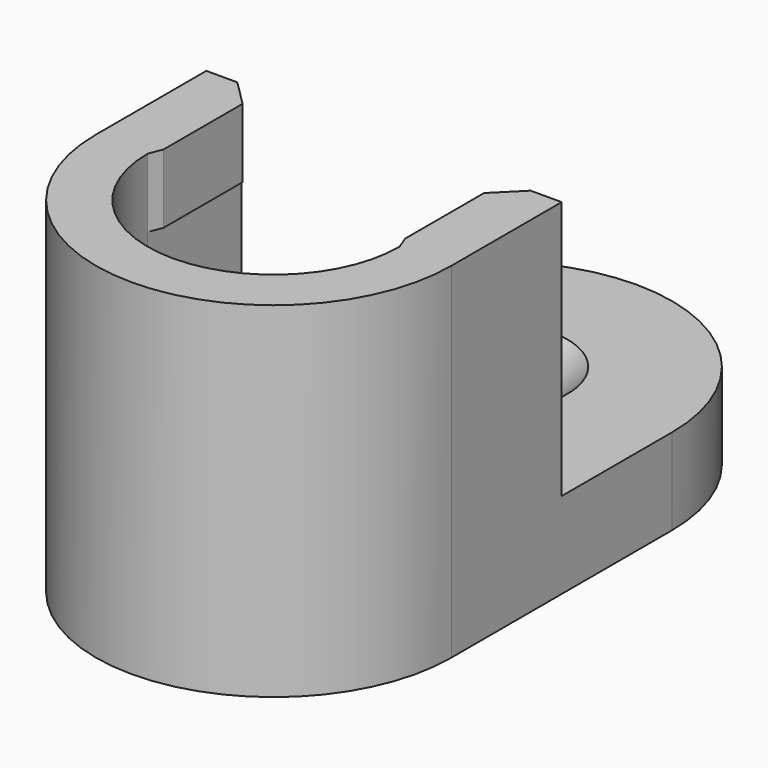
from build123d import *

# Parameters (mm, degrees)
F1_DEPTH       = 15
F1_DEPTH_BACK  = 5
F2_START       = 11
F2_DEPTH       = 4
F3_DEPTH       = 5
F4_D           = 3.8
F4_CSINK_D     = 8.5
F4_CSINK_ANGLE = 90
F5_SIZE        = 1.5


with BuildPart() as f1:
    # F0 (on Top) → F1 (new body, two sides)
    with BuildSketch(Plane.XY) as f1_sk:
        with BuildLine():
            ThreePointArc((7.3, 0), (0, -7.3), (-7.3, 0))
            Line((-7.3, 0), (-7.3, 8))
            Line((-7.3, 8), (-10.3, 8))
            Line((-10.3, 8), (-10.3, 0))
            ThreePointArc((-10.3, 0), (0, -10.3), (10.3, 0))
            Line((10.3, 0), (10.3, 8))
            Line((10.3, 8), (7.3, 8))
            Line((7.3, 8), (7.3, 0))
        make_face()
    extrude(amount=F1_DEPTH)
    extrude(f1_sk.sketch, amount=-F1_DEPTH_BACK)

    # F0 (on Top) → F2 (join)
    with BuildSketch(Plane.XY.offset(F2_START)):
        Polygon((-7.3, 8), (-7.3, 0), (-7, 0.7787641953), (-7, 8), align=None)
        Polygon((7, 0.7787641953), (7.3, 0), (7.3, 8), (7, 8), align=None)
    extrude(amount=F2_DEPTH)

    # F0 (on Top) → F3 (join)
    with BuildSketch(Plane.XY):
        Polygon((-7.3, 8), (-7.3, 0), (-7, 0.7787641953), (-7, 8), align=None)
        with BuildLine():
            Line((-7, 0.7787641953), (-7.3, 0))
            ThreePointArc((-7.3, 0), (0, -7.3), (7.3, 0))
            Line((7.3, 0), (7, 0.7787641953))
            Line((7, 0.7787641953), (7, 8))
            Line((7, 8), (7.3, 8))
            Line((7.3, 8), (10.3, 8))
            Line((10.3, 8), (10.3, 16))
            ThreePointArc((10.3, 16), (0, 26.3), (-10.3, 16))
            Line((-10.3, 16), (-10.3, 8))
            Line((-10.3, 8), (-7.3, 8))
            Line((-7.3, 8), (-7, 8))
            Line((-7, 8), (-7, 0.7787641953))
        make_face()
        Polygon((7, 0.7787641953), (7.3, 0), (7.3, 8), (7, 8), align=None)
    extrude(amount=-F3_DEPTH)

    # F4 (through all)
    with Locations(Plane.XY):
        with Locations((0, 16), (0, 0)):
            CounterSinkHole(F4_D / 2, F4_CSINK_D / 2, counter_sink_angle=F4_CSINK_ANGLE)

    # F5
    f5_edges = [f1.edges().sort_by_distance(p)[0] for p in [
        (-7, 8, 13),
        (7, 8, 13),
    ]]
    chamfer(f5_edges, length=F5_SIZE)


solid = f1.part
